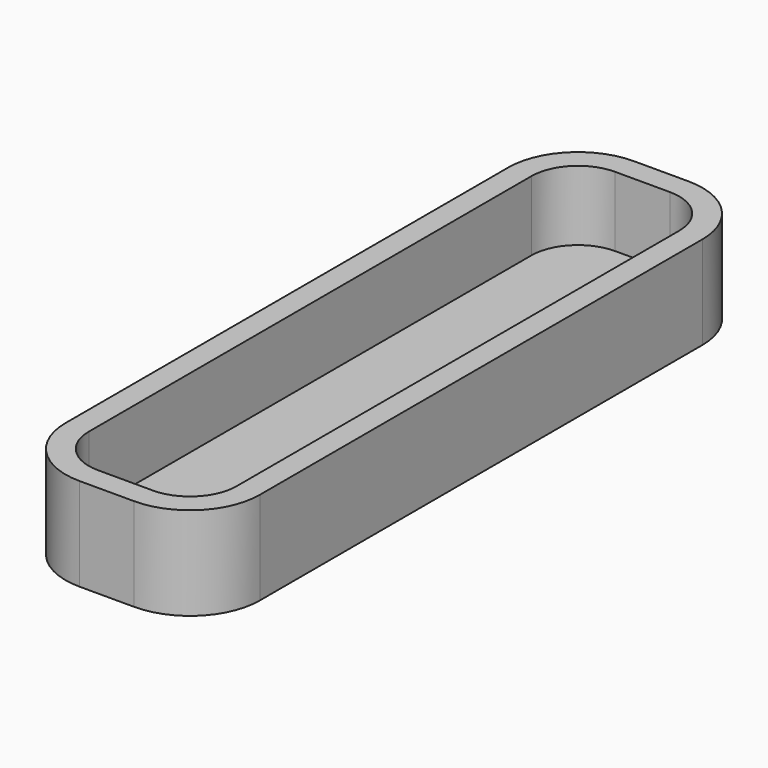
from build123d import *

# Parameters (mm, degrees)
F0_W     = 16.1397904158
F0_H     = 70.5894511193
F1_DEPTH = 7.62
F2_R     = 5.08
F3_R     = 5.08
F4_R     = 5.08
F5_R     = 5.08
F6_T     = 2.54


with BuildPart() as f1:
    # F0 (on Top) → F1 (new body)
    with BuildSketch(Plane.XY):
        with Locations((-135.1853534579, 5.979702808)):
            Rectangle(F0_W, F0_H)
    extrude(amount=F1_DEPTH)

    # F2
    f2_edges = [f1.edges().sort_by_distance(p)[0] for p in [
        (-143.255249, -29.315023, 3.81),
    ]]
    fillet(f2_edges, radius=F2_R)

    # F3
    f3_edges = [f1.edges().sort_by_distance(p)[0] for p in [
        (-127.115458, -29.315023, 3.81),
    ]]
    fillet(f3_edges, radius=F3_R)

    # F4
    f4_edges = [f1.edges().sort_by_distance(p)[0] for p in [
        (-143.255249, 41.274428, 3.81),
    ]]
    fillet(f4_edges, radius=F4_R)

    # F5
    f5_edges = [f1.edges().sort_by_distance(p)[0] for p in [
        (-127.115458, 41.274428, 3.81),
    ]]
    fillet(f5_edges, radius=F5_R)

    # F6
    f6_openings = [f1.faces().sort_by_distance(p)[0] for p in [
        (-135.185353, 5.979703, 7.62),
    ]]
    offset(amount=F6_T, openings=f6_openings, kind=Kind.INTERSECTION)


solid = f1.part
